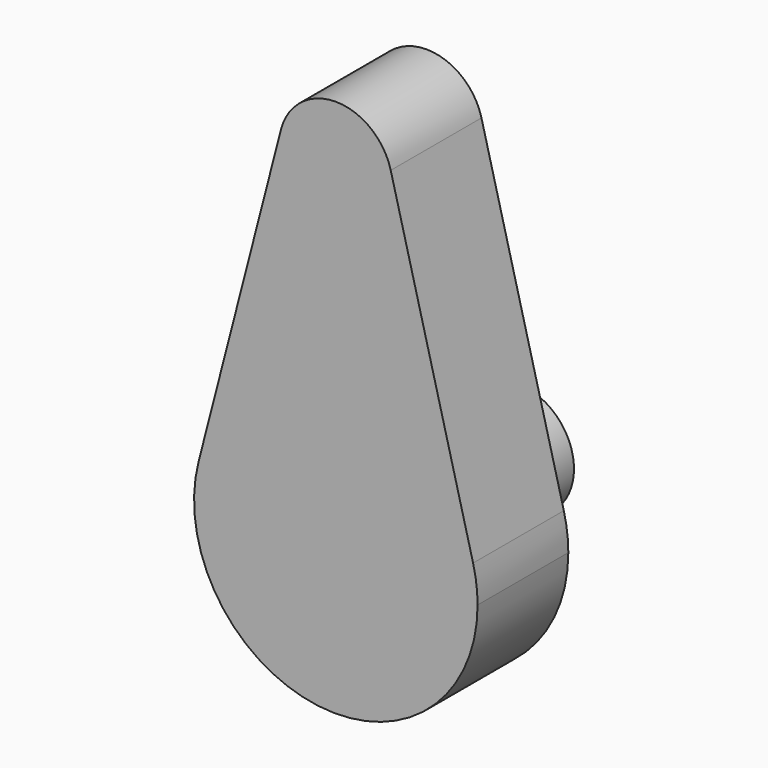
from build123d import *

# Parameters (mm, degrees)
F1_DEPTH = 20
F2_R     = 10
F3_DEPTH = 20


with BuildPart() as f1:
    # F0 (on Front) → F1 (new body)
    with BuildSketch(Plane.XZ):
        with BuildLine():
            ThreePointArc((-24.206146, 6.25), (0, 25), (24.206146, 6.25))
            Line((24.206146, 6.25), (9.682458, 62.5))
            ThreePointArc((9.682458, 62.5), (9.920297, 61.260043), (10, 60))
            ThreePointArc((10, 60), (-1.260043, 50.079703), (-9.682458, 62.5))
            Line((-9.682458, 62.5), (-24.206146, 6.25))
        make_face()
        with BuildLine():
            ThreePointArc((-24.206146, 6.25), (-3.150107, -24.800742), (25, 0))
            ThreePointArc((25, 0), (24.800742, 3.150107), (24.206146, 6.25))
            ThreePointArc((24.206146, 6.25), (0, 25), (-24.206146, 6.25))
        make_face()
        with BuildLine():
            ThreePointArc((10, 60), (9.920297, 61.260043), (9.682458, 62.5))
            ThreePointArc((9.682458, 62.5), (0, 70), (-9.682458, 62.5))
            ThreePointArc((-9.682458, 62.5), (-1.260043, 50.079703), (10, 60))
        make_face()
    extrude(amount=F1_DEPTH)

    # F2 (on face) → F3 (join)
    with BuildSketch(Plane(origin=(0, 0, 0), x_dir=(-1, 0, 0), z_dir=(0, 1, 0))):
        Circle(F2_R)
    extrude(amount=F3_DEPTH)


solid = f1.part
